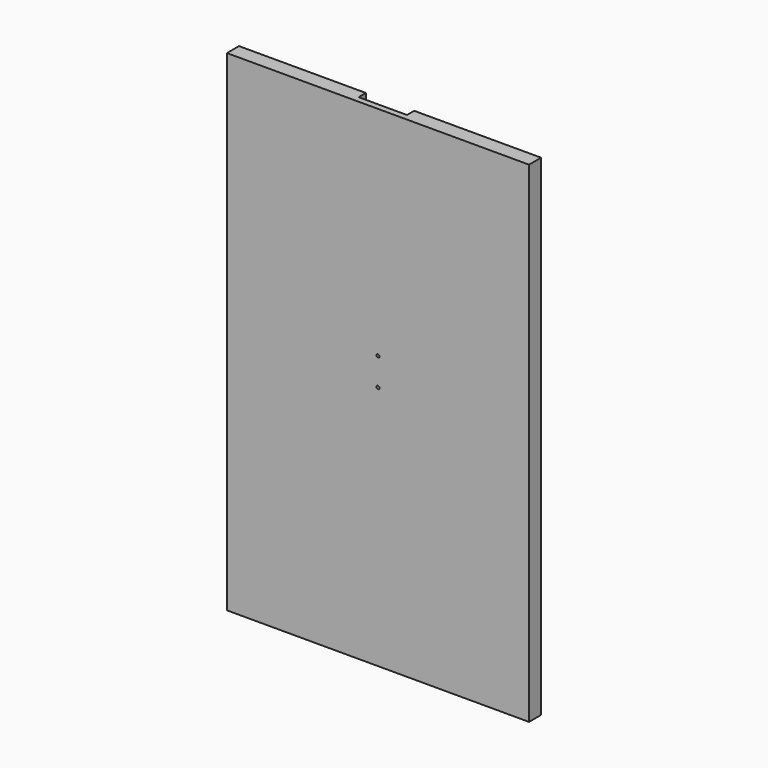
from build123d import *

# Parameters (mm, degrees)
F1_DEPTH = 812
F2_R     = 2.5
F3_DEPTH = 10.001
F4_R     = 2.5
F5_DEPTH = 25.001


with BuildPart() as f1:
    # F0 (on Top) → F1 (new body)
    with BuildSketch(Plane.XY):
        Polygon((-28.650518, 0), (-238.650518, 0), (-238.650518, -25), (261.349482, -25), (261.349482, 0), (51.349482, 0), (51.349482, -15), (-28.650518, -15), align=None)
    extrude(amount=F1_DEPTH)

    # F2 (on face) → F3 (cut, through all)
    with BuildSketch(Plane(origin=(0, -15, 0), x_dir=(-1, 0, 0), z_dir=(0, 1, 0))):
        with Locations((-11.349482, 406)):
            Circle(F2_R)
    extrude(amount=-F3_DEPTH, mode=Mode.SUBTRACT)

    # F4 (on face) → F5 (cut, through all)
    with BuildSketch(Plane.XZ.offset(25)):
        with Locations((11.349482, 452)):
            Circle(F4_R)
    extrude(amount=-F5_DEPTH, mode=Mode.SUBTRACT)


solid = f1.part
